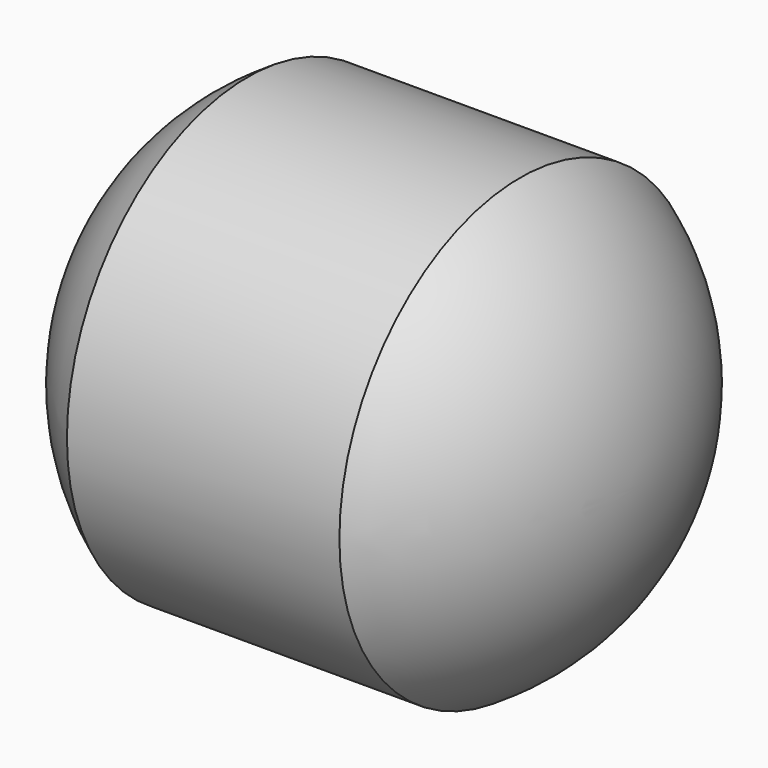
from build123d import *


with BuildPart() as f1:
    # F0 (on Top) → F1 (revolve)
    with BuildSketch(Plane.XY):
        with BuildLine():
            ThreePointArc((18.3379445225, -30.4250669698), (30.9306055369, -17.4717643799), (35.5241454426, 0))
            Line((35.5241454426, 0), (12.1471510988, 0))
            ThreePointArc((12.1471510988, 0), (0, -12.1471510988), (-12.1471510988, 0))
            Line((-12.1471510988, 0), (-34.6931413752, 0))
            Line((-34.6931413752, 0), (-35.5241454426, 0))
            ThreePointArc((-35.5241454426, 0), (-30.9306055369, -17.4717643799), (-18.3379445225, -30.4250669698))
            Line((-18.3379445225, -30.4250669698), (18.3379445225, -30.4250669698))
        make_face()
    revolve(axis=Axis((0, 0, 0), (1, 0, 0)))


solid = f1.part
